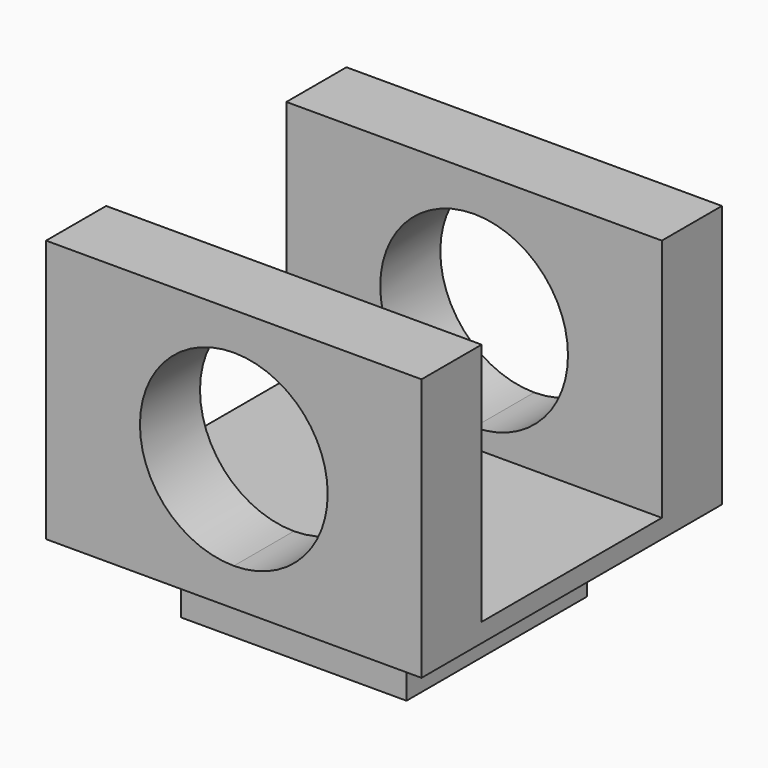
from build123d import *

# Parameters (mm, degrees)
F0_W     = 6
F0_H     = 6
F1_DEPTH = 2
F0_W_2   = 2
F2_DEPTH = 0.5
F4_DEPTH = 10
F5_W     = 10
F5_H     = 6
F6_DEPTH = 6.5


with BuildPart() as f1:
    # F0 (on Top) → F1 (new body)
    with BuildSketch(Plane.XY):
        Rectangle(F0_W, F0_H)
    extrude(amount=-F1_DEPTH)

    # F0 (on Top) → F2 (join)
    with BuildSketch(Plane.XY):
        Polygon((5, 3), (5, 5), (-5, 5), (-5, 3), (-3, 3), (3, 3), align=None)
        Rectangle(F0_W, F0_H)
        with Locations((-4, 0)):
            Rectangle(F0_W_2, F0_H)
        Polygon((5, -5), (5, -3), (3, -3), (-3, -3), (-5, -3), (-5, -5), align=None)
        with Locations((4, 0)):
            Rectangle(F0_W_2, F0_H)
    extrude(amount=F2_DEPTH)

    # F3 (on face) → F4 (join)
    with BuildSketch(Plane.XZ.offset(5)):
        with BuildLine():
            Line((0, 1), (0, 0.5))
            Line((0, 0.5), (5, 0.5))
            Line((5, 0.5), (5, 7))
            Line((5, 7), (0, 7))
            Line((0, 7), (0, 6))
            ThreePointArc((0, 6), (1.767767, 5.267767), (2.5, 3.5))
            ThreePointArc((2.5, 3.5), (1.767767, 1.732233), (0, 1))
        make_face()
        with BuildLine():
            Line((-5, 7), (-5, 0.5))
            Line((-5, 0.5), (0, 0.5))
            Line((0, 0.5), (0, 1))
            ThreePointArc((0, 1), (-2.5, 3.5), (0, 6))
            Line((0, 6), (0, 7))
            Line((0, 7), (-5, 7))
        make_face()
    extrude(amount=-F4_DEPTH)

    # F5 (on face) → F6 (cut)
    with BuildSketch(Plane.XY.offset(7)):
        Rectangle(F5_W, F5_H)
    extrude(amount=-F6_DEPTH, mode=Mode.SUBTRACT)


solid = f1.part
